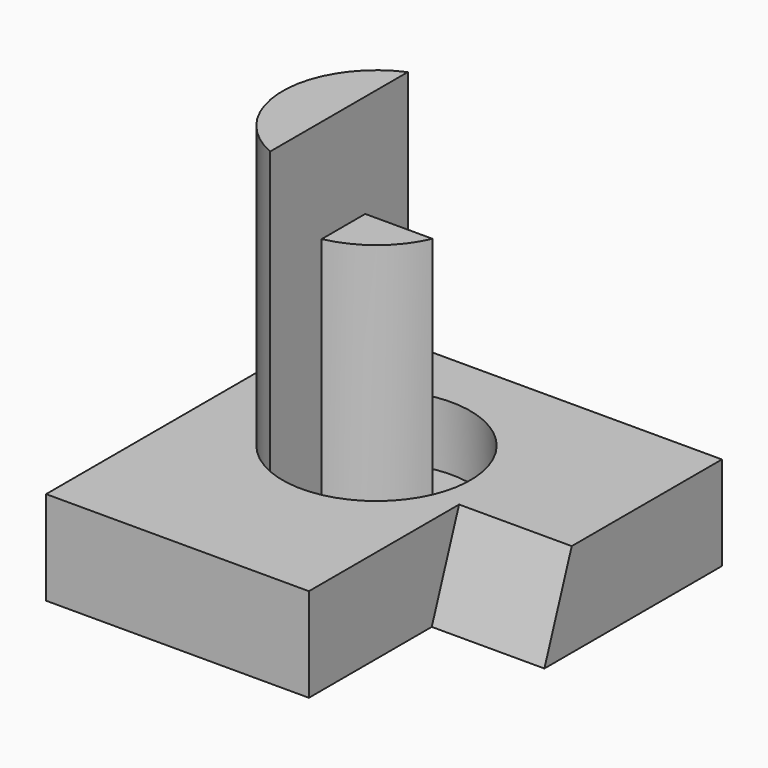
from build123d import *

# Parameters (mm, degrees)
F0_W      = 100
F0_H      = 100
F1_DEPTH  = 100
F2_W      = 100
F2_H      = 75
F3_DEPTH  = 100.001
F4_R      = 25
F5_DEPTH  = 17
F7_DEPTH  = 92
F8_W      = 30.7691868506
F8_H      = 32.9230235268
F9_DEPTH  = 100.001
F11_DEPTH = 30


with BuildPart() as f1:
    # F0 (on Front) → F1 (new body)
    with BuildSketch(Plane.XZ):
        with Locations((50, 50)):
            Rectangle(F0_W, F0_H)
    extrude(amount=-F1_DEPTH)

    # F2 (on face) → F3 (cut, through all)
    with BuildSketch(Plane.YZ.offset(100)):
        with Locations((50, 62.5)):
            Rectangle(F2_W, F2_H)
    extrude(amount=-F3_DEPTH, mode=Mode.SUBTRACT)

    # F4 (on face) → F5 (cut)
    with BuildSketch(Plane.XY.offset(25)):
        with Locations((40, 60)):
            Circle(F4_R)
    extrude(amount=-F5_DEPTH, mode=Mode.SUBTRACT)

    # F6 (on face) → F7 (join)
    with BuildSketch(Plane.XY.offset(8)):
        with BuildLine():
            Line((30, 37.0871215252), (30, 82.9128784748))
            ThreePointArc((30, 82.9128784748), (15, 60), (30, 37.0871215252))
        make_face()
        with BuildLine():
            Line((62.9128784748, 50), (45, 50))
            Line((45, 50), (45, 35.5051025722))
            ThreePointArc((45, 35.5051025722), (55.7260201274, 40.5656929387), (62.9128784748, 50))
        make_face()
    extrude(amount=F7_DEPTH)

    # F8 (on face) → F9 (cut, through all)
    with BuildSketch(Plane.XZ):
        with Locations((54.3266609311, 101.4615117634)):
            Rectangle(F8_W, F8_H)
    extrude(amount=-F9_DEPTH, mode=Mode.SUBTRACT)

    # F10 (on face) → F11 (cut)
    with BuildSketch(Plane.YZ.offset(100)):
        Polygon((40.9007441433, 0), (50, 25), (0, 25), (0, 0), align=None)
    extrude(amount=-F11_DEPTH, mode=Mode.SUBTRACT)


solid = f1.part
